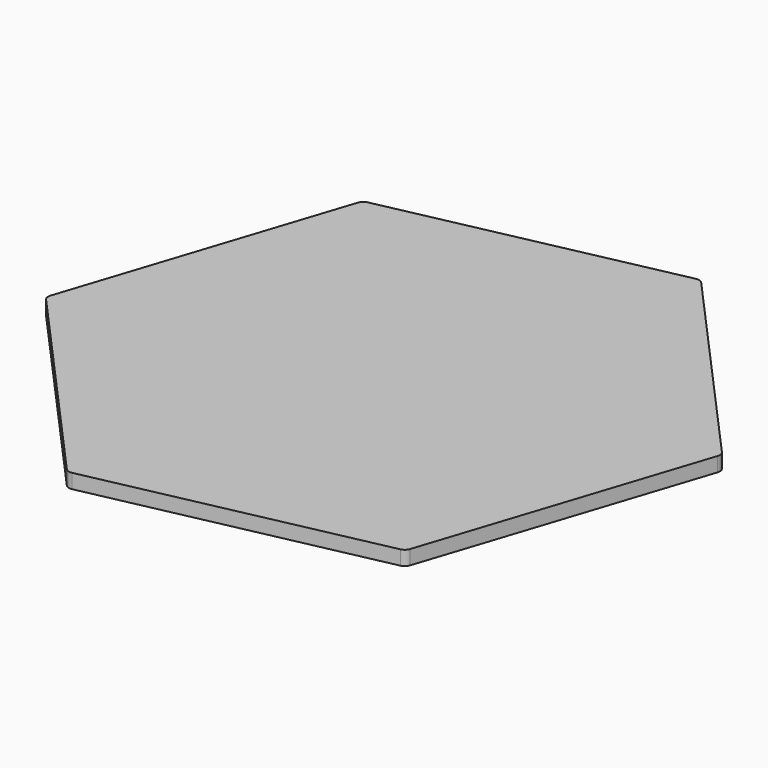
from build123d import *

# Parameters (mm, degrees)
F1_DEPTH = 10
F2_R     = 5.08


with BuildPart() as f1:
    # F0 (on Top) → F1 (new body)
    with BuildSketch(Plane.XY):
        Polygon((137.066265, -152.816627), (200.876214, 42.294554), (63.809948, 195.111181), (-137.066265, 152.816627), (-200.876214, -42.294554), (-63.809948, -195.111181), align=None)
    extrude(amount=F1_DEPTH)

    # F2
    f2_edges = [f1.edges().sort_by_distance(p)[0] for p in [
        (-63.809948, -195.111181, 5),
        (137.066265, -152.816627, 5),
        (200.876214, 42.294554, 5),
        (-200.876214, -42.294554, 5),
        (63.809948, 195.111181, 5),
        (-137.066265, 152.816627, 5),
    ]]
    fillet(f2_edges, radius=F2_R)


solid = f1.part
